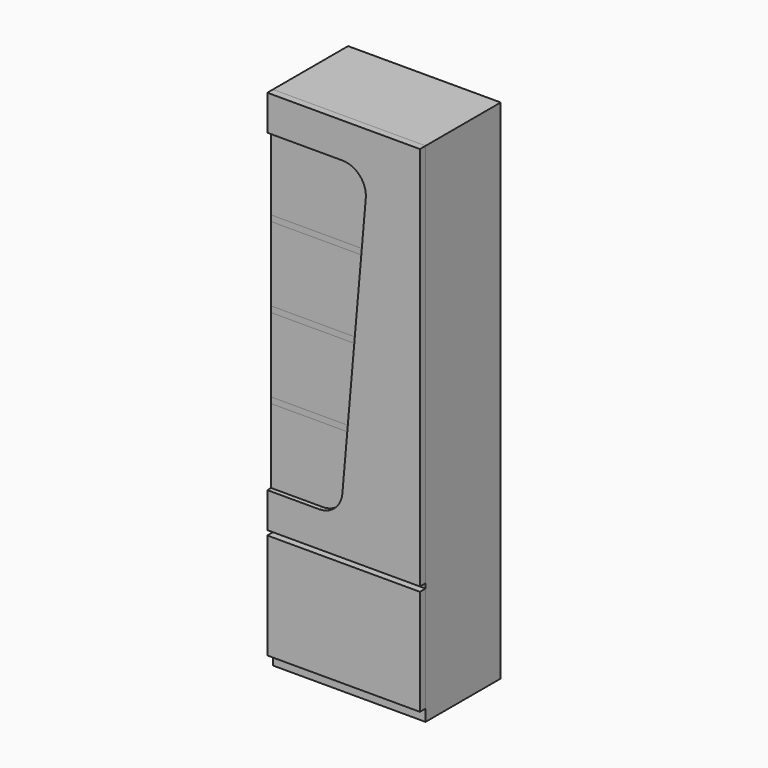
from build123d import *

# Parameters (mm, degrees)
F1_W     = 650
F1_H     = 400
F2_DEPTH = 2160
F3_W     = 650
F3_H     = 450
F4_DEPTH = 30
F5_DEPTH = 10
F6_DEPTH = 10


with BuildPart() as f2:
    # F1 (on Top) → F2 (new body)
    with BuildSketch(Plane.XY):
        with Locations((325, 200)):
            Rectangle(F1_W, F1_H)
    extrude(amount=F2_DEPTH)


with BuildPart() as f4:
    # F3 (on face) → F4 (new body)
    with BuildSketch(Plane.XZ):
        with Locations((325, 275)):
            Rectangle(F3_W, F3_H)
    extrude(amount=F4_DEPTH)


with BuildPart() as f4b:
    # F3 (on face) → F4, piece 2 (new body)
    with BuildSketch(Plane.XZ):
        with BuildLine():
            Line((0, 670), (0, 520))
            Line((0, 520), (650, 520))
            Line((650, 520), (650, 2160))
            Line((650, 2160), (0, 2160))
            Line((0, 2160), (0, 2010))
            Line((0, 2010), (319.8691498931, 2010))
            ThreePointArc((319.8691498931, 2010), (393.5968835741, 1977.5590207616), (419.4886197022, 1901.2844257252))
            Line((419.4886197022, 1901.2844257252), (401.3317101599, 1693.75))
            Line((401.3317101599, 1693.75), (399.1444935718, 1668.75))
            Line((399.1444935718, 1668.75), (371.4762037317, 1352.5))
            Line((371.4762037317, 1352.5), (369.2889871436, 1327.5))
            Line((369.2889871436, 1327.5), (341.6206973035, 1011.25))
            Line((341.6206973035, 1011.25), (339.4334807153, 986.25))
            Line((339.4334807153, 986.25), (319.7515432827, 761.2844257252))
            ThreePointArc((319.7515432827, 761.2844257252), (287.6910942351, 696.272266319), (220.1320734735, 670))
            Line((220.1320734735, 670), (0, 670))
        make_face()
    extrude(amount=F4_DEPTH)


with BuildPart() as f5:
    # F3 (on face) → F5 (new body)
    with BuildSketch(Plane.XZ):
        with BuildLine():
            Line((319.8691498931, 2010), (0, 2010))
            Line((0, 2010), (0, 1693.75))
            Line((0, 1693.75), (401.3317101599, 1693.75))
            Line((401.3317101599, 1693.75), (419.4886197022, 1901.2844257252))
            ThreePointArc((419.4886197022, 1901.2844257252), (393.5968835741, 1977.5590207616), (319.8691498931, 2010))
        make_face()
    extrude(amount=F5_DEPTH)


with BuildPart() as f5b:
    # F3 (on face) → F5, piece 2 (new body)
    with BuildSketch(Plane.XZ):
        Polygon((0, 1668.75), (0, 1352.5), (371.4762037317, 1352.5), (399.1444935718, 1668.75), align=None)
    extrude(amount=F5_DEPTH)


with BuildPart() as f5c:
    # F3 (on face) → F5, piece 3 (new body)
    with BuildSketch(Plane.XZ):
        Polygon((0, 1327.5), (0, 1011.25), (341.6206973035, 1011.25), (369.2889871436, 1327.5), align=None)
    extrude(amount=F5_DEPTH)


with BuildPart() as f5d:
    # F3 (on face) → F5, piece 4 (new body)
    with BuildSketch(Plane.XZ):
        with BuildLine():
            Line((0, 986.25), (0, 670))
            Line((0, 670), (220.1320734735, 670))
            ThreePointArc((220.1320734735, 670), (287.6910942351, 696.272266319), (319.7515432827, 761.2844257252))
            Line((319.7515432827, 761.2844257252), (339.4334807153, 986.25))
            Line((339.4334807153, 986.25), (0, 986.25))
        make_face()
    extrude(amount=F5_DEPTH)


with BuildPart() as f6:
    # F3 (on face) → F6 (new body)
    with BuildSketch(Plane.XZ):
        Polygon((401.3317101599, 1693.75), (0, 1693.75), (0, 1668.75), (399.1444935718, 1668.75), align=None)
    extrude(amount=F6_DEPTH)


with BuildPart() as f6b:
    # F3 (on face) → F6, piece 2 (new body)
    with BuildSketch(Plane.XZ):
        Polygon((0, 1352.5), (0, 1327.5), (369.2889871436, 1327.5), (371.4762037317, 1352.5), align=None)
    extrude(amount=F6_DEPTH)


with BuildPart() as f6c:
    # F3 (on face) → F6, piece 3 (new body)
    with BuildSketch(Plane.XZ):
        Polygon((0, 1011.25), (0, 986.25), (339.4334807153, 986.25), (341.6206973035, 1011.25), align=None)
    extrude(amount=F6_DEPTH)


solid = Compound([f2.part, f4.part, f4b.part, f5.part, f5b.part, f5c.part, f5d.part, f6.part, f6b.part, f6c.part])
